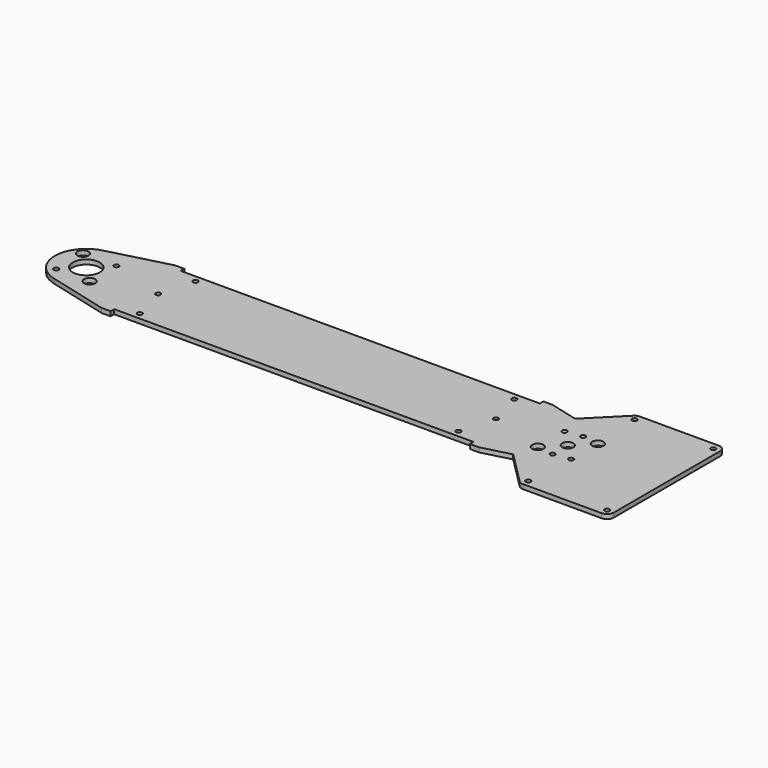
from build123d import *

# Parameters (mm, degrees)
F0_R     = 1.7272
F0_R_2   = 3.96875
F0_R_3   = 9.525
F1_DEPTH = 3.175
F2_R     = 4.7625


with BuildPart() as f1:
    # F0 (on Top) → F1 (new body)
    with BuildSketch(Plane.XY):
        with BuildLine():
            Line((-303.612563, 32.54375), (-346.10942, 21.512003))
            ThreePointArc((-346.10942, 21.512003), (-362.750125, 0), (-346.10942, -21.512003))
            Line((-346.10942, -21.512003), (-303.612563, -32.54375))
            Line((-303.612563, -32.54375), (-297.262563, -32.54375))
            Line((-297.262563, -32.54375), (-297.262563, -29.36875))
            Line((-297.262563, -29.36875), (-43.262563, -29.36875))
            Line((-43.262563, -29.36875), (-43.262563, -32.54375))
            Line((-43.262563, -32.54375), (-36.912563, -32.54375))
            Line((-36.912563, -32.54375), (-16.771103, -27.315234))
            Line((-16.771103, -27.315234), (6.2453, -50.331637))
            ThreePointArc((6.2453, -50.331637), (7.790366, -51.364017), (9.612896, -51.726541))
            Line((9.612896, -51.726541), (70.052399, -51.726541))
            Line((70.052399, -51.726541), (70.052399, 51.726541))
            Line((70.052399, 51.726541), (9.612896, 51.726541))
            ThreePointArc((9.612896, 51.726541), (7.790366, 51.364017), (6.2453, 50.331637))
            Line((6.2453, 50.331637), (-16.771103, 27.315234))
            Line((-16.771103, 27.315234), (-36.912563, 32.54375))
            Line((-36.912563, 32.54375), (-43.262563, 32.54375))
            Line((-43.262563, 32.54375), (-43.262563, 29.36875))
            Line((-43.262563, 29.36875), (-297.262563, 29.36875))
            Line((-297.262563, 29.36875), (-297.262563, 32.54375))
            Line((-297.262563, 32.54375), (-303.612563, 32.54375))
        make_face()
        with Locations((-282.975063, -24.60625)):
            Circle(F0_R, mode=Mode.SUBTRACT)
        with Locations((-352.311712, -11.786586)):
            Circle(F0_R, mode=Mode.SUBTRACT)
        with Locations((-328.738539, -11.786586)):
            Circle(F0_R_2, mode=Mode.SUBTRACT)
        with Locations((9.612896, -46.964041)):
            Circle(F0_R, mode=Mode.SUBTRACT)
        with Locations((65.289899, -46.964041)):
            Circle(F0_R, mode=Mode.SUBTRACT)
        with Locations((-57.550063, -24.60625)):
            Circle(F0_R, mode=Mode.SUBTRACT)
        with Locations((0, -13.49375)):
            Circle(F0_R, mode=Mode.SUBTRACT)
        with Locations((-11.786586, -11.786586)):
            Circle(F0_R_2, mode=Mode.SUBTRACT)
        with Locations((11.786586, -11.786586)):
            Circle(F0_R, mode=Mode.SUBTRACT)
        with Locations((-340.525125, 0)):
            Circle(F0_R_3, mode=Mode.SUBTRACT)
        with Locations((-352.311712, 11.786586)):
            Circle(F0_R_2, mode=Mode.SUBTRACT)
        with Locations((-328.738539, 11.786586)):
            Circle(F0_R, mode=Mode.SUBTRACT)
        with Locations((-289.725125, 0)):
            Circle(F0_R, mode=Mode.SUBTRACT)
        with Locations((-282.975063, 24.60625)):
            Circle(F0_R, mode=Mode.SUBTRACT)
        with Locations((-50.8, 0)):
            Circle(F0_R, mode=Mode.SUBTRACT)
        with Locations((-57.550063, 24.60625)):
            Circle(F0_R, mode=Mode.SUBTRACT)
        Circle(F0_R_2, mode=Mode.SUBTRACT)
        with Locations((-11.786586, 11.786586)):
            Circle(F0_R, mode=Mode.SUBTRACT)
        with Locations((11.786586, 11.786586)):
            Circle(F0_R_2, mode=Mode.SUBTRACT)
        with Locations((0, 13.49375)):
            Circle(F0_R, mode=Mode.SUBTRACT)
        with Locations((9.612896, 46.964041)):
            Circle(F0_R, mode=Mode.SUBTRACT)
        with Locations((65.289899, 46.964041)):
            Circle(F0_R, mode=Mode.SUBTRACT)
    extrude(amount=F1_DEPTH)

    # F2
    f2_edges = [f1.edges().sort_by_distance(p)[0] for p in [
        (70.052399, 51.726541, 1.5875),
        (70.052399, -51.726541, 1.5875),
    ]]
    fillet(f2_edges, radius=F2_R)


solid = f1.part
